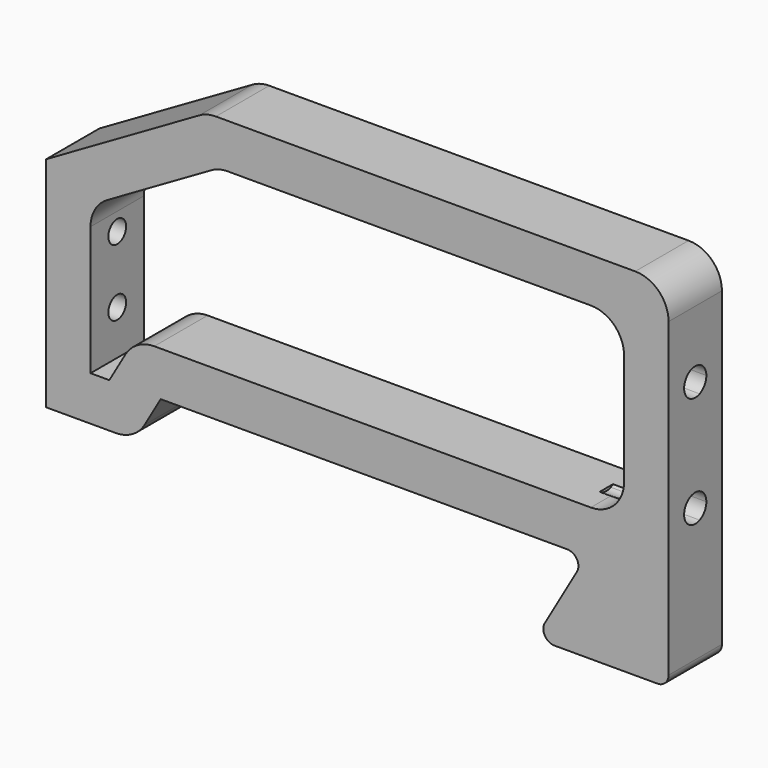
from build123d import *

# Parameters (mm, degrees)
F1_DEPTH      = 9.525
F1_DEPTH_BACK = 9.525
F2_R          = 9.525
F3_R          = 3.175
F4_R          = 3.175
F5_DEPTH      = 12.7
F7_DEPTH      = 25.4


with BuildPart() as f1:
    # F0 (on Front) → F1 (new body, two sides)
    with BuildSketch(Plane.XZ) as f1_sk:
        Polygon((-42.952364, 50.8), (-88.9, 24.27212), (-88.9, -38.1), (-63.5, -38.1), (-56.167652, -25.4), (65.464697, -25.4), (50.8, -50.8), (88.9, -50.8), (88.9, 50.8), align=None)
        Polygon((-39.549409, 38.1), (76.2, 38.1), (76.2, -12.7), (-63.5, -12.7), (-70.832348, -25.4), (-76.2, -25.4), (-76.2, 16.939772), align=None, mode=Mode.SUBTRACT)
    extrude(amount=F1_DEPTH)
    extrude(f1_sk.sketch, amount=-F1_DEPTH_BACK)

    # F2
    f2_edges = [f1.edges().sort_by_distance(p)[0] for p in [
        (88.9, 0, 50.8),
        (-42.952364, 0, 50.8),
        (-63.5, 0, -38.1),
        (-76.2, 0, 16.939772),
        (-39.549409, 0, 38.1),
        (76.2, 0, 38.1),
        (-63.5, 0, -12.7),
        (76.2, 0, -12.7),
    ]]
    fillet(f2_edges, radius=F2_R)

    # F3
    f3_edges = [f1.edges().sort_by_distance(p)[0] for p in [
        (50.8, 0, -50.8),
        (65.464697, 0, -25.4),
        (88.9, 0, -50.8),
    ]]
    fillet(f3_edges, radius=F3_R)

    # F4 (on face) → F5 (cut, through all)
    with BuildSketch(Plane(origin=(-88.9, 0, 0), x_dir=(0, -1, 0), z_dir=(-1, 0, 0))):
        with Locations((0, -12.7)):
            Circle(F4_R)
        with Locations((0, 6.35)):
            Circle(F4_R)
    extrude(amount=-F5_DEPTH, mode=Mode.SUBTRACT)

    # F6 (on face) → F7 (cut)
    with BuildSketch(Plane.YZ.offset(88.9)):
        with BuildLine():
            Line((1.5875, -13.162419), (1.5875, -5.887581))
            ThreePointArc((1.5875, -5.887581), (-3.96875, -9.525), (1.5875, -13.162419))
        make_face()
        with BuildLine():
            ThreePointArc((3.96875, -9.525), (3.320494, -7.351226), (1.5875, -5.887581))
            Line((1.5875, -5.887581), (1.5875, -13.162419))
            ThreePointArc((1.5875, -13.162419), (3.320494, -11.698774), (3.96875, -9.525))
        make_face()
        with BuildLine():
            ThreePointArc((1.5875, 18.587581), (3.320494, 20.051226), (3.96875, 22.225))
            ThreePointArc((3.96875, 22.225), (3.320494, 24.398774), (1.5875, 25.862419))
            Line((1.5875, 25.862419), (1.5875, 18.587581))
        make_face()
        with BuildLine():
            Line((1.5875, 18.587581), (1.5875, 25.862419))
            ThreePointArc((1.5875, 25.862419), (-3.96875, 22.225), (1.5875, 18.587581))
        make_face()
    extrude(amount=-F7_DEPTH, mode=Mode.SUBTRACT)


solid = f1.part
